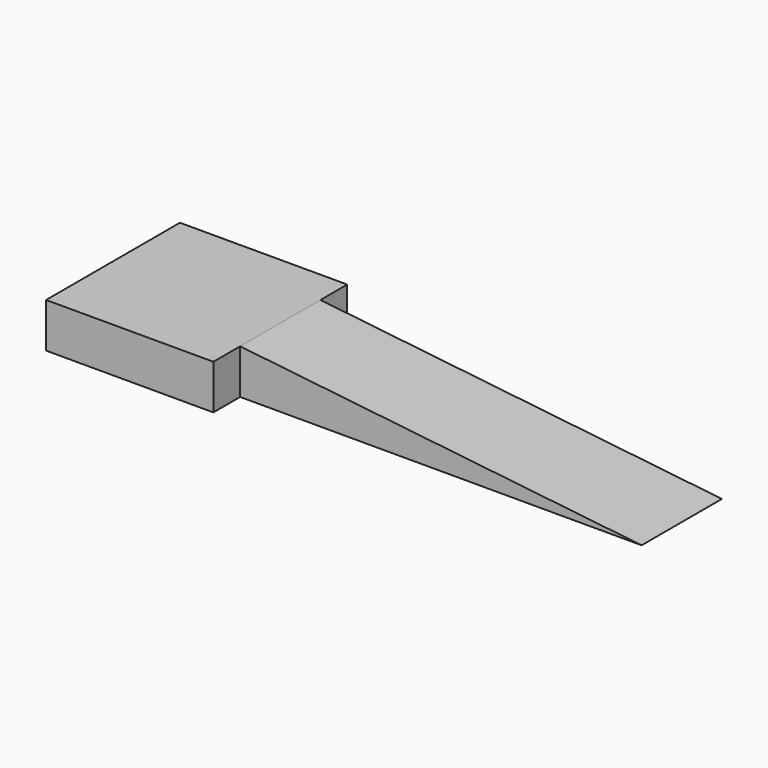
from build123d import *

# Parameters (mm, degrees)
F0_W     = 1524
F0_H     = 406.4
F1_DEPTH = 762
F2_DEPTH = 457.2


with BuildPart() as f1:
    # F0 (on Front) → F1 (new body, symmetric)
    with BuildSketch(Plane.XZ):
        Rectangle(F0_W, F0_H)
    extrude(amount=F1_DEPTH, both=True)

    # F0 (on Front) → F2 (join, symmetric)
    with BuildSketch(Plane.XZ):
        Rectangle(F0_W, F0_H)
        Polygon((4419.6, -203.2), (762, 203.2), (762, -203.2), align=None)
    extrude(amount=F2_DEPTH, both=True)


solid = f1.part
